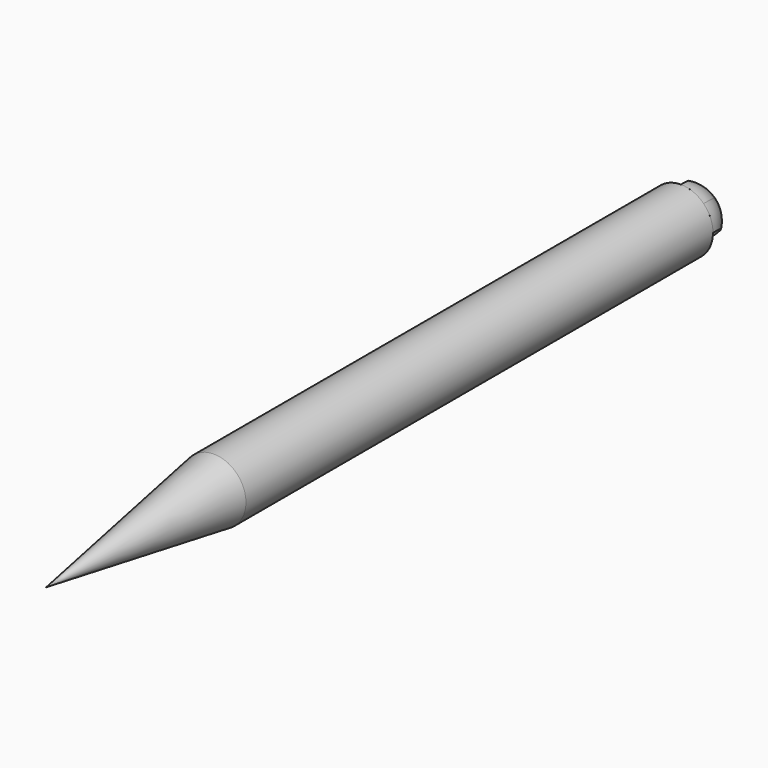
from build123d import *

# Parameters (mm, degrees)
F3_ANGLE = 180


with BuildPart() as f1:
    # F0 (on Top) → F1 (revolve)
    with BuildSketch(Plane.XY):
        Polygon((-4.3351986654, 5.9559750371), (-4.3351986654, 35.0886846244), (-5.1351986654, 35.0886846244), (-5.9351986654, 35.0886846244), (-5.9351986654, 31.8886846244), (-5.9351986654, -4.5113153756), align=None)
    revolve(axis=Axis((-5.9351986654, 13.6886846244, 0), (0, -1, 0)))


with BuildPart() as f3:
    # F2 (on face) → F3 (revolve)
    with BuildSketch(Plane(origin=(0, 35.0886846244, 0), x_dir=(-1, 0, 0), z_dir=(0, 1, 0))):
        with BuildLine():
            ThreePointArc((5.9351986654, 1.6), (5.3229051736, 1.478207252), (4.8038278155, 1.1313708499))
            Line((4.8038278155, 1.1313708499), (5.5351986654, 0.4))
            Line((5.5351986654, 0.4), (5.9351986654, 0.8))
            Line((5.9351986654, 0.8), (5.9351986654, 1.6))
        make_face()
        with BuildLine():
            ThreePointArc((4.8038278155, 1.1313708499), (4.4569914134, 0.6122934918), (4.3351986654, 0))
            Line((4.3351986654, 0), (5.1351986654, 0))
            Line((5.1351986654, 0), (5.5351986654, 0.4))
            Line((5.5351986654, 0.4), (4.8038278155, 1.1313708499))
        make_face()
    revolve(axis=Axis((-5.9351986654, 35.0886846244, 0), (-0.7071067812, 0, 0.7071067812)), revolution_arc=F3_ANGLE)


solid = Compound([f1.part, f3.part])
